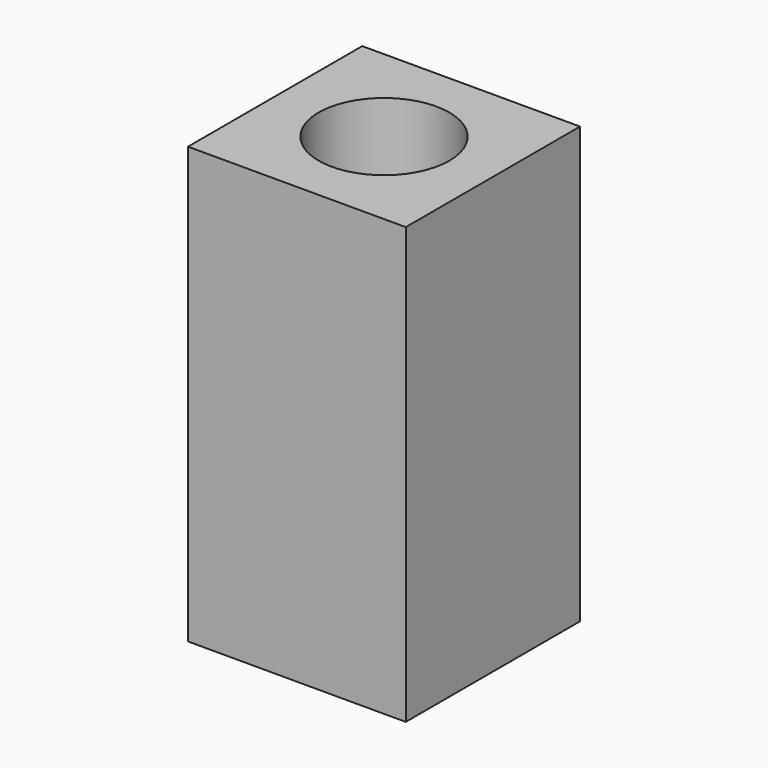
from build123d import *

# Parameters (mm, degrees)
F0_W     = 50
F0_H     = 50
F1_DEPTH = 50
F2_R     = 15
F3_DEPTH = 50
F4_DEPTH = 50


with BuildPart() as f1:
    # F0 (on Top) → F1 (new body)
    with BuildSketch(Plane.XY):
        Rectangle(F0_W, F0_H)
    extrude(amount=F1_DEPTH)

    # F2 (on face) → F3 (cut)
    with BuildSketch(Plane.XY.offset(50)):
        Circle(F2_R)
    extrude(amount=-F3_DEPTH, mode=Mode.SUBTRACT)

    # F4 (add): a face of the model
    f4_faces = [f1.faces().sort_by_distance(p)[0] for p in [
        (0, 24.2928932188, 50),
    ]]
    extrude(f4_faces, amount=F4_DEPTH)


solid = f1.part
